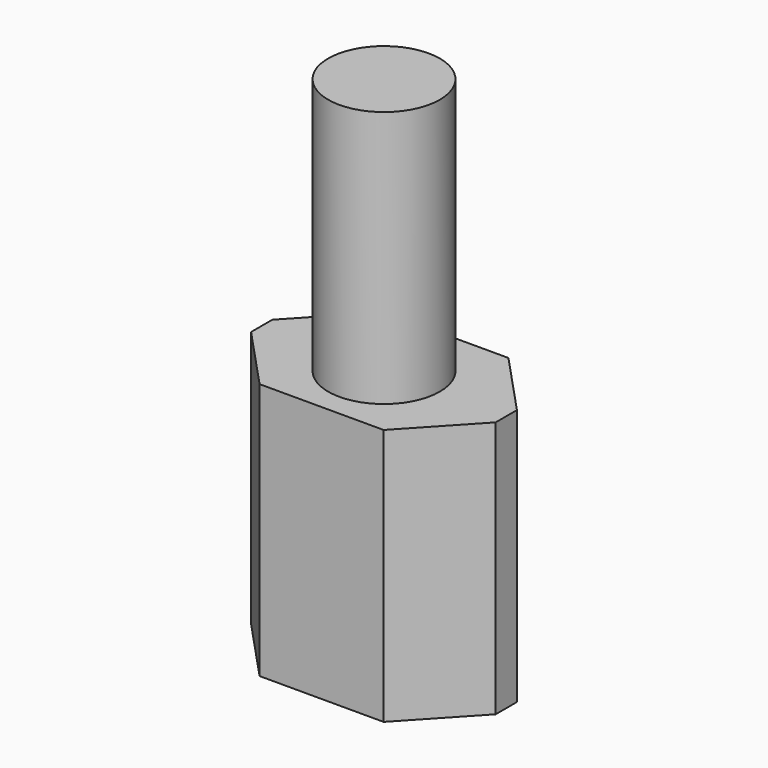
from build123d import *

# Parameters (mm, degrees)
F1_DEPTH = 14.5
F2_R     = 3.15
F3_DEPTH = 14.5


with BuildPart() as f1:
    # F0 (on Top) → F1 (new body)
    with BuildSketch(Plane.XY):
        Polygon((-3.5, -4.4), (0, -4.4), (3.5, -4.4), (6.9, -0.75), (6.9, 0), (6.9, 0.75), (3.5, 4.4), (-3.5, 4.4), (-6.9, 0.75), (-6.9, -0.75), align=None)
    extrude(amount=F1_DEPTH)

    # F2 (on face) → F3 (join)
    with BuildSketch(Plane.XY.offset(14.5)):
        Circle(F2_R)
    extrude(amount=F3_DEPTH)


solid = f1.part
